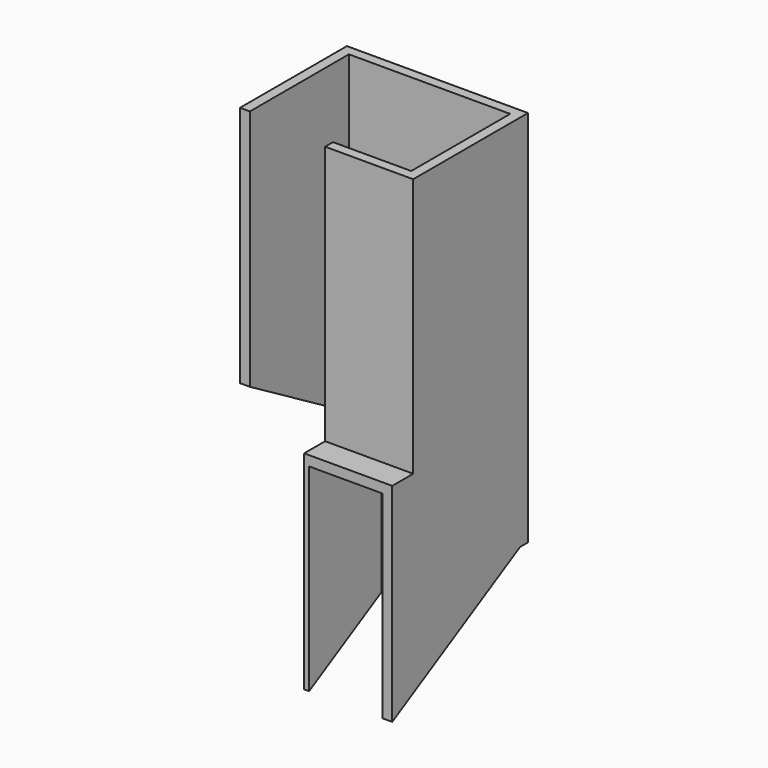
from build123d import *

# Parameters (mm, degrees)
F1_DEPTH  = 100
F3_DEPTH  = 100
F5_DEPTH  = 100
F7_DEPTH  = 100
F8_DEPTH  = 790
F10_DEPTH = 50


with BuildPart() as f1:
    # F0 (on Front) → F1 (new body)
    with BuildSketch(Plane.XZ):
        Polygon((0, -3820), (0, 0), (-1630, 0), (-1630, -3180), align=None)
    extrude(amount=-F1_DEPTH)

    # F2 (on face) → F3 (join)
    with BuildSketch(Plane(origin=(-1630, 0, 0), x_dir=(0, -1, 0), z_dir=(-1, 0, 0))):
        Polygon((1250, 0), (-100, 0), (-100, -3180), (0, -3180), (1250, -2450), align=None)
    extrude(amount=F3_DEPTH)

    # F4 (on face) → F5 (join)
    with BuildSketch(Plane.YZ):
        Polygon((100, -3820), (100, 0), (-1250, 0), (-1250, -2720), (-1615, -2720), (-1615, -4720), (0, -3820), align=None)
    extrude(amount=F5_DEPTH)

    # F6 (on face) → F7 (join, through all)
    with BuildSketch(Plane(origin=(0, 0, 0), x_dir=(0, -1, 0), z_dir=(-1, 0, 0))):
        Polygon((1350, 0), (1250, 0), (1250, -2720), (1615, -2720), (1615, -2620), (1350, -2620), align=None)
    extrude(amount=-F7_DEPTH)

    # F6 (on face) → F8 (join)
    with BuildSketch(Plane(origin=(0, 0, 0), x_dir=(0, -1, 0), z_dir=(-1, 0, 0))):
        Polygon((1350, 0), (1250, 0), (1250, -2720), (1615, -2720), (1615, -2620), (1350, -2620), align=None)
    extrude(amount=F8_DEPTH)

    # F9 (on face) → F10 (join)
    with BuildSketch(Plane(origin=(-790, 0, 0), x_dir=(0, -1, 0), z_dir=(-1, 0, 0))):
        Polygon((1250, -2720), (1250, -1670), (700, -2040), (700, -4210.092879), (1615, -4720), (1615, -2720), align=None)
    extrude(amount=-F10_DEPTH)


solid = f1.part
